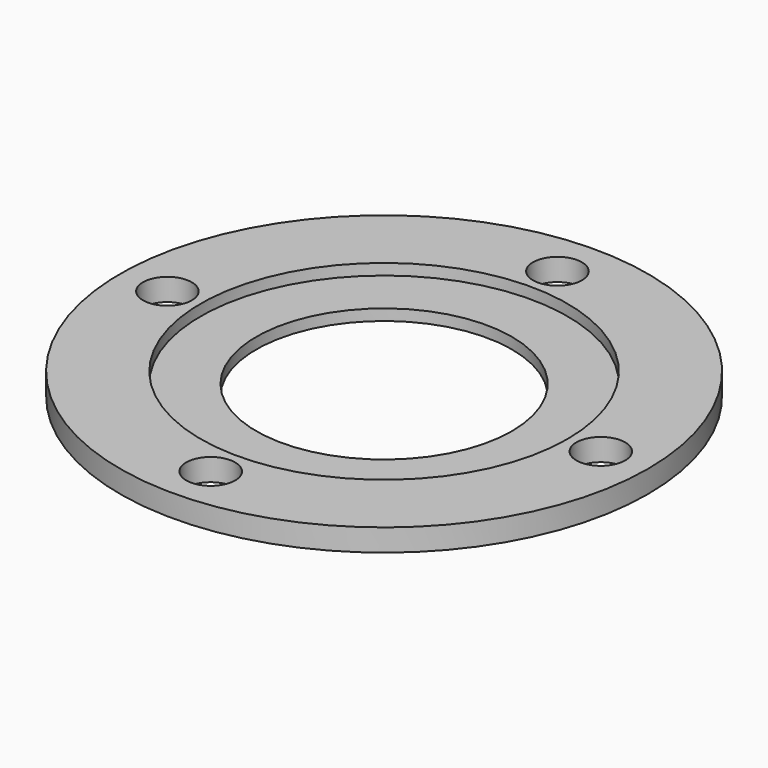
from build123d import *

# Parameters (mm, degrees)
F1_W = 7.25
F1_H = 1
F4_D = 4.4
F5_D = 4.4
F6_D = 4.4
F7_D = 4.4


with BuildPart() as f2:
    # F1 (on Front) → F2 (revolve)
    with BuildSketch(Plane.XZ):
        Polygon((11.5, 1), (11.5, 0), (23.75, 0), (23.75, 1), (16.5, 1), align=None)
        with Locations((20.125, 1.5)):
            Rectangle(F1_W, F1_H)
    revolve(axis=Axis((0, 0, 1.627581194), (0, 0, -1)))

    # F4 (through all)
    with Locations(Plane(origin=(0, 0, 0), x_dir=(1, 0, 0), z_dir=(0, 0, -1))):
        with Locations((19.5, 0)):
            Hole(F4_D / 2)

    # F5 (through all)
    with Locations(Plane(origin=(0, 0, 0), x_dir=(1, 0, 0), z_dir=(0, 0, -1))):
        with Locations((0, 19.5)):
            Hole(F5_D / 2)

    # F6 (through all)
    with Locations(Plane(origin=(0, 0, 0), x_dir=(1, 0, 0), z_dir=(0, 0, -1))):
        with Locations((-19.5, 0)):
            Hole(F6_D / 2)

    # F7 (through all)
    with Locations(Plane(origin=(0, 0, 0), x_dir=(1, 0, 0), z_dir=(0, 0, -1))):
        with Locations((0, -19.5)):
            Hole(F7_D / 2)


solid = f2.part
